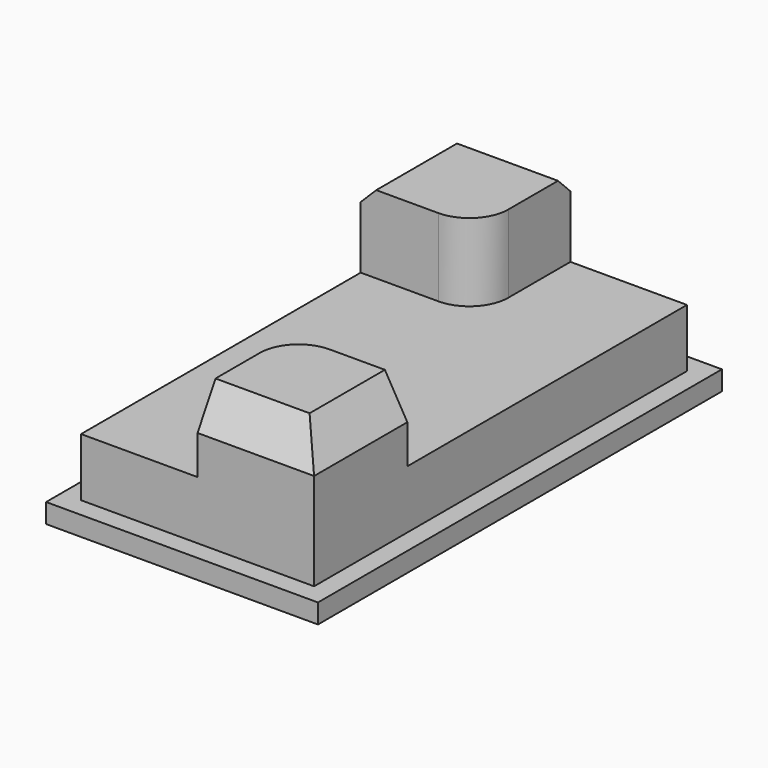
from build123d import *

# Parameters (mm, degrees)
F0_W     = 88.9
F0_H     = 165.1
F1_DEPTH = 6.35
F2_DEPTH = 25.4
F3_DEPTH = 50.8
F4_SIZE2 = 12.7
F4_SIZE  = 7.3323484187
F5_SIZE  = 5.08


with BuildPart() as f1:
    # F0 (on Top) → F1 (new body)
    with BuildSketch(Plane.XY):
        with Locations((3.3165217161, -5.8097798109)):
            Rectangle(F0_W, F0_H)
        Polygon((-34.7834782839, 32.2902201891), (-34.7834782839, 70.3902201891), (3.3165217161, 70.3902201891), (41.4165217161, 70.3902201891), (41.4165217161, -43.9097798109), (41.4165217161, -82.0097798109), (3.3165217161, -82.0097798109), (-34.7834782839, -82.0097798109), align=None, mode=Mode.SUBTRACT)
    extrude(amount=F1_DEPTH)

    # F0 (on Top) → F2 (join)
    with BuildSketch(Plane.XY):
        with BuildLine():
            Line((41.4165217161, 70.3902201891), (3.3165217161, 70.3902201891))
            Line((3.3165217161, 70.3902201891), (3.3165217161, 44.9902201891))
            ThreePointArc((3.3165217161, 44.9902201891), (-0.4032221628, 36.009964068), (-9.3834782839, 32.2902201891))
            Line((-9.3834782839, 32.2902201891), (-34.7834782839, 32.2902201891))
            Line((-34.7834782839, 32.2902201891), (-34.7834782839, -82.0097798109))
            Line((-34.7834782839, -82.0097798109), (3.3165217161, -82.0097798109))
            Line((3.3165217161, -82.0097798109), (3.3165217161, -56.6097798109))
            ThreePointArc((3.3165217161, -56.6097798109), (7.036265595, -47.6295236898), (16.0165217161, -43.9097798109))
            Line((16.0165217161, -43.9097798109), (41.4165217161, -43.9097798109))
            Line((41.4165217161, -43.9097798109), (41.4165217161, 70.3902201891))
        make_face()
    extrude(amount=F2_DEPTH)

    # F0 (on Top) → F3 (join)
    with BuildSketch(Plane.XY):
        with BuildLine():
            Line((3.3165217161, 70.3902201891), (-34.7834782839, 70.3902201891))
            Line((-34.7834782839, 70.3902201891), (-34.7834782839, 32.2902201891))
            Line((-34.7834782839, 32.2902201891), (-9.3834782839, 32.2902201891))
            ThreePointArc((-9.3834782839, 32.2902201891), (-0.4032221628, 36.009964068), (3.3165217161, 44.9902201891))
            Line((3.3165217161, 44.9902201891), (3.3165217161, 70.3902201891))
        make_face()
        with BuildLine():
            Line((41.4165217161, -82.0097798109), (41.4165217161, -43.9097798109))
            Line((41.4165217161, -43.9097798109), (16.0165217161, -43.9097798109))
            ThreePointArc((16.0165217161, -43.9097798109), (7.036265595, -47.6295236898), (3.3165217161, -56.6097798109))
            Line((3.3165217161, -56.6097798109), (3.3165217161, -82.0097798109))
            Line((3.3165217161, -82.0097798109), (41.4165217161, -82.0097798109))
        make_face()
    extrude(amount=F3_DEPTH)

    # F4
    f4_edges = [f1.edges().sort_by_distance(p)[0] for p in [
        (22.366522, -82.00978, 50.8),
        (41.416522, -62.95978, 50.8),
    ]]
    f4_side = f1.faces().sort_by_distance((22.762564, -63.355822, 50.8))[0]
    chamfer(f4_edges, length=F4_SIZE, length2=F4_SIZE2, reference=f4_side)

    # F5
    f5_edges = [f1.edges().sort_by_distance(p)[0] for p in [
        (-15.733478, 70.39022, 50.8),
        (-34.783478, 51.34022, 50.8),
    ]]
    chamfer(f5_edges, length=F5_SIZE)


solid = f1.part
